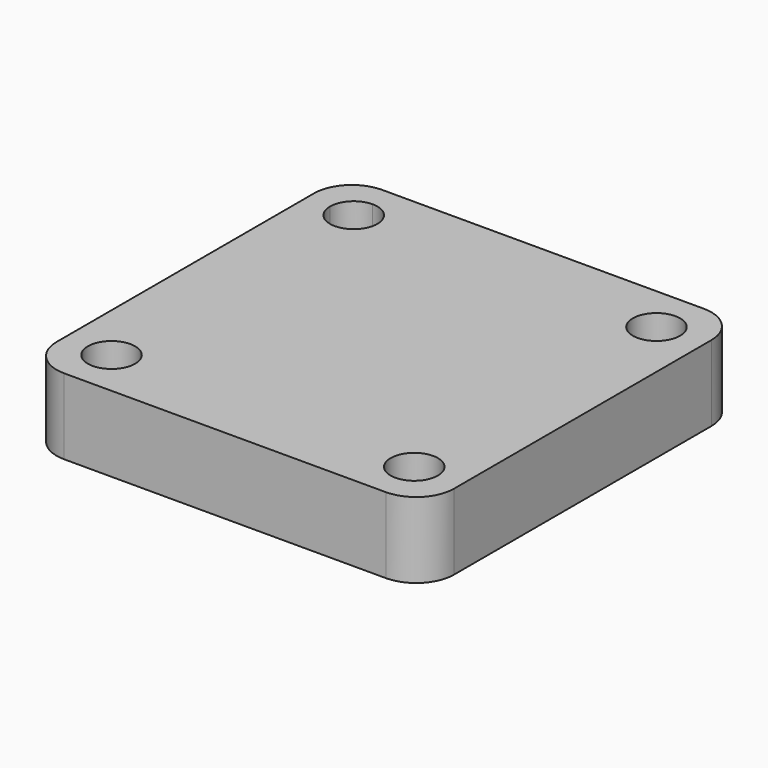
from build123d import *

# Parameters (mm, degrees)
F0_R     = 2.5
F1_DEPTH = 8
F2_R     = 4


with BuildPart() as f1:
    # F0 (on Top) → F1 (new body)
    with BuildSketch(Plane.XY):
        with BuildLine():
            Line((-21, 21), (-21, 16))
            Line((-21, 16), (-18.5, 16))
            ThreePointArc((-18.5, 16), (-17.767767, 17.767767), (-16, 18.5))
            Line((-16, 18.5), (-16, 21))
            Line((-16, 21), (-21, 21))
        make_face()
        with BuildLine():
            Line((-21, -21), (21, -21))
            Line((21, -21), (21, 21))
            Line((21, 21), (-16, 21))
            Line((-16, 21), (-16, 18.5))
            ThreePointArc((-16, 18.5), (-14.232233, 17.767767), (-13.5, 16))
            ThreePointArc((-13.5, 16), (-16, 13.5), (-18.5, 16))
            Line((-18.5, 16), (-21, 16))
            Line((-21, 16), (-21, -21))
        make_face()
        with Locations((-16, -16)):
            Circle(F0_R, mode=Mode.SUBTRACT)
        with Locations((16, -16)):
            Circle(F0_R, mode=Mode.SUBTRACT)
        with Locations((16, 16)):
            Circle(F0_R, mode=Mode.SUBTRACT)
    extrude(amount=F1_DEPTH)

    # F2
    f2_edges = [f1.edges().sort_by_distance(p)[0] for p in [
        (21, -21, 4),
        (-21, -21, 4),
        (21, 21, 4),
        (-21, 21, 4),
    ]]
    fillet(f2_edges, radius=F2_R)


solid = f1.part
